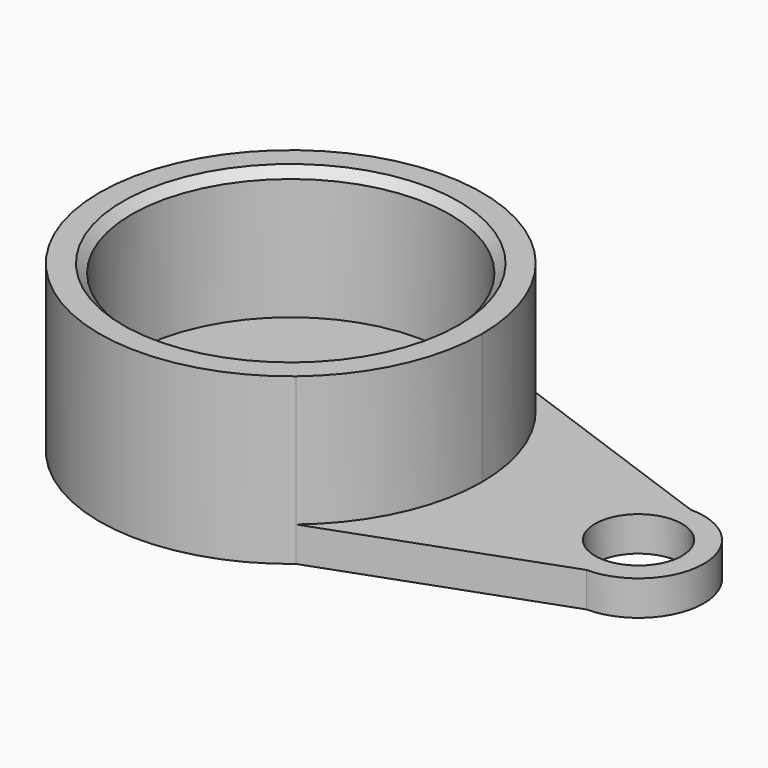
from build123d import *

# Parameters (mm, degrees)
F1_DEPTH = 2.54
F2_R     = 11.6205
F3_DEPTH = 9.525
F4_SIZE  = 0.635
F5_R     = 3.175
F6_DEPTH = 2.541


with BuildPart() as f1:
    # F0 (on Top) → F1 (new body)
    with BuildSketch(Plane.XY):
        with BuildLine():
            Line((25.4, 4.7625), (8.951913, 10.724932))
            ThreePointArc((8.951913, 10.724932), (-13.97, 0), (8.951913, -10.724932))
            Line((8.951913, -10.724932), (25.4, -4.7625))
            ThreePointArc((25.4, -4.7625), (30.1625, 0), (25.4, 4.7625))
        make_face()
    extrude(amount=F1_DEPTH)

    # F2 (on face) → F3 (join)
    with BuildSketch(Plane.XY.offset(2.54)):
        with BuildLine():
            ThreePointArc((8.951913, -10.724932), (12.653441, -5.920417), (13.97, 0))
            ThreePointArc((13.97, 0), (12.653441, 5.920417), (8.951913, 10.724932))
            ThreePointArc((8.951913, 10.724932), (-13.97, 0), (8.951913, -10.724932))
        make_face()
        Circle(F2_R, mode=Mode.SUBTRACT)
    extrude(amount=F3_DEPTH)

    # F4
    f4_edges = [f1.edges().sort_by_distance(p)[0] for p in [
        (-11.6205, 0, 12.065),
    ]]
    chamfer(f4_edges, length=F4_SIZE)

    # F5 (on face) → F6 (cut, through all)
    with BuildSketch(Plane.XY.offset(2.54)):
        with Locations((25.4, 0)):
            Circle(F5_R)
    extrude(amount=-F6_DEPTH, mode=Mode.SUBTRACT)


solid = f1.part
